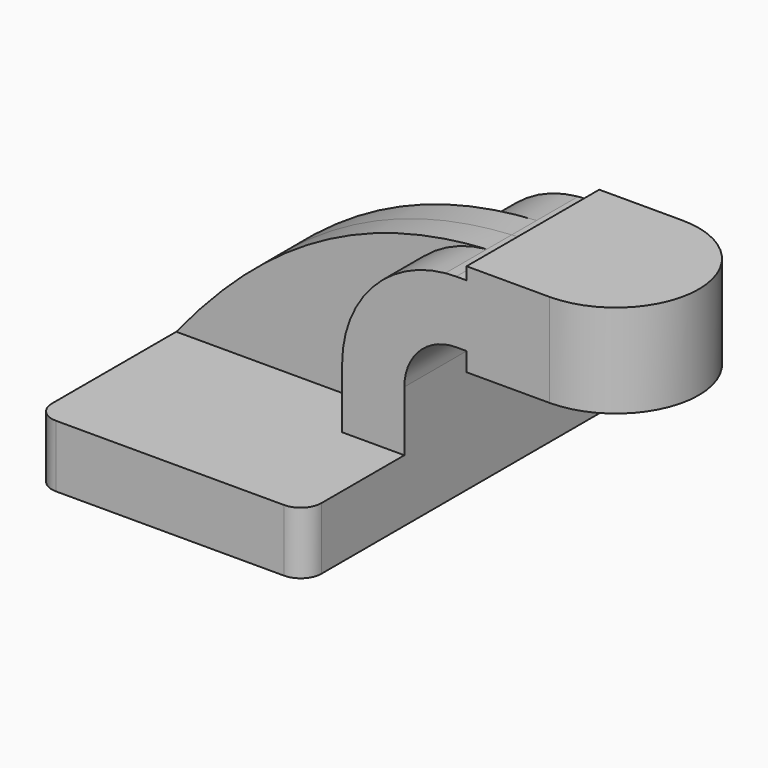
from build123d import *

# Parameters (mm, degrees)
F1_DEPTH = 63.5
F0_W     = 25.4
F0_H     = 5.715
F0_H_2   = 3.81
F0_H_3   = 19.05
F2_DEPTH = 25.4
F3_DEPTH = 9.525
F5_R     = 6.35


with BuildPart() as f1:
    # F0 (on Front) → F1 (new body, symmetric)
    with BuildSketch(Plane.XZ):
        Polygon((22.225, 9.525), (-41.275, 9.525), (-41.275, -9.525), (41.275, -9.525), (41.275, 9.525), align=None)
    extrude(amount=F1_DEPTH, both=True)

    # F0 (on Front) → F2 (join, symmetric)
    with BuildSketch(Plane.XZ):
        with BuildLine():
            Line((22.225, 27.94), (22.225, 9.525))
            Line((22.225, 9.525), (41.275, 9.525))
            Line((41.275, 9.525), (41.275, 27.94))
            ThreePointArc((41.275, 27.94), (45.9246798487, 39.1653201513), (57.15, 43.815))
            Line((57.15, 43.815), (60.325, 43.815))
            Line((60.325, 43.815), (60.325, 62.865))
            Line((60.325, 62.865), (57.15, 62.865))
            add(Edge.make_bspline(
                [(53.8414351699, 62.7079309676), (54.9353913903, 62.7725296007), (56.0381901925, 62.8249247758), (57.15, 62.865)],
                knots=[109.0590899765, 109.0590899765, 109.0590899765, 109.0590899765, 111.9492573669, 111.9492573669, 111.9492573669, 111.9492573669], degree=3))
            ThreePointArc((53.8414351699, 62.7079309676), (31.3110057114, 51.4368508348), (22.225, 27.94))
        make_face()
        with Locations((73.025, 40.9575)):
            Rectangle(F0_W, F0_H)
        with Locations((73.025, 64.77)):
            Rectangle(F0_W, F0_H_2)
        with Locations((73.025, 53.34)):
            Rectangle(F0_W, F0_H_3)
    extrude(amount=F2_DEPTH, both=True)

    # F0 (on Front) → F3 (join, symmetric)
    with BuildSketch(Plane.XZ):
        with BuildLine():
            add(Edge.make_bspline(
                [(-41.275, 9.525), (-16.1274971076, 40.4562996606), (12.5615182112, 60.2703323134), (53.8414351699, 62.7079309676)],
                knots=[0, 0, 0, 0, 109.0590899765, 109.0590899765, 109.0590899765, 109.0590899765], degree=3))
            Line((-41.275, 9.525), (22.225, 9.525))
            Line((22.225, 9.525), (22.225, 27.94))
            ThreePointArc((22.225, 27.94), (31.3110057114, 51.4368508348), (53.8414351699, 62.7079309676))
        make_face()
    extrude(amount=F3_DEPTH, both=True)

    # F0 (on Front) → F4 (revolve)
    with BuildSketch(Plane.XZ):
        Polygon((85.725, 66.675), (85.725, 62.865), (85.725, 43.815), (85.725, 38.1), (111.125, 38.1), (111.125, 66.675), align=None)
    revolve(axis=Axis((85.725, 0, 52.3875), (0, 0, 1)))

    # F5
    f5_edges = [f1.edges().sort_by_distance(p)[0] for p in [
        (-41.275, 63.5, 0),
        (41.275, 63.5, 0),
        (41.275, -63.5, 0),
        (-41.275, -63.5, 0),
    ]]
    fillet(f5_edges, radius=F5_R)


solid = f1.part
